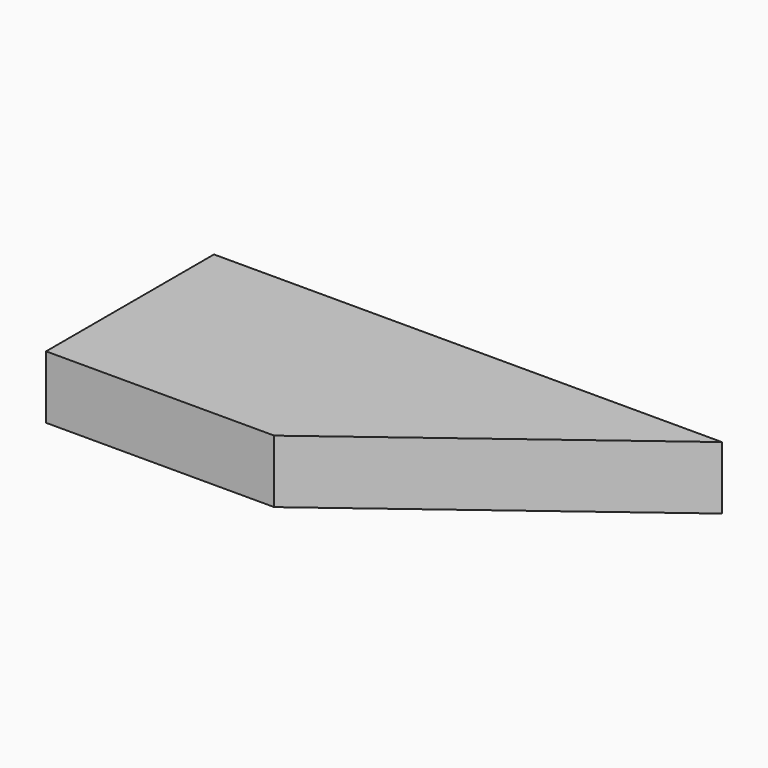
from build123d import *

# Parameters (mm, degrees)
F0_W     = 32.617452
F0_H     = 30
F1_DEPTH = 9


with BuildPart() as f1:
    # F0 (on Top) → F1 (new body)
    with BuildSketch(Plane.XY):
        Rectangle(F0_W, F0_H)
        Polygon((56.308726, 15), (16.308726, 15), (16.308726, -15), align=None)
    extrude(amount=F1_DEPTH)


solid = f1.part
